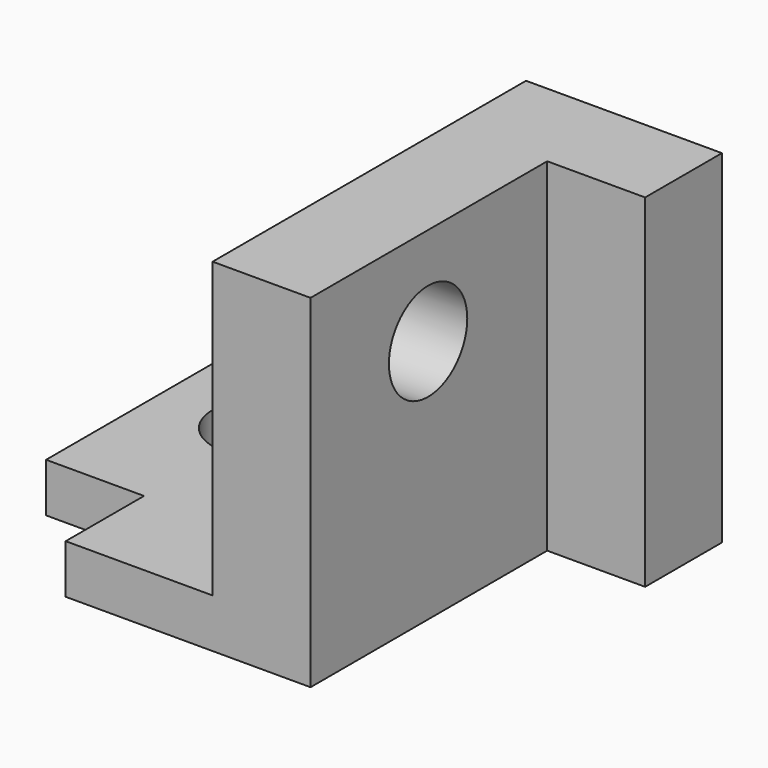
from build123d import *

# Parameters (mm, degrees)
F0_R     = 12.7
F1_DEPTH = 12.7
F2_W     = 12.7
F2_H     = 101.6
F3_DEPTH = 25.4
F2_W_2   = 25.4
F4_DEPTH = 76.2
F5_R     = 12.7
F6_DEPTH = 25.4
F7_W     = 24.888192
F7_H     = 88.9
F8_DEPTH = 25.4


with BuildPart() as f1:
    # F0 (on Top) → F1 (new body)
    with BuildSketch(Plane.XY):
        Polygon((-38.1, -50.8), (38.1, -50.8), (38.1, 50.8), (-38.1, 50.8), (-63.5, 50.8), (-63.5, -25.4), (-38.1, -25.4), align=None)
        with Locations((-38.1, 12.7)):
            Circle(F0_R, mode=Mode.SUBTRACT)
    extrude(amount=F1_DEPTH)

    # F2 (on face) → F3 (cut)
    with BuildSketch(Plane.XY.offset(12.7)):
        with Locations((31.75, 0)):
            Rectangle(F2_W, F2_H)
    extrude(amount=-F3_DEPTH, mode=Mode.SUBTRACT)

    # F2 (on face) → F4 (join)
    with BuildSketch(Plane.XY.offset(12.7)):
        with Locations((12.7, 0)):
            Rectangle(F2_W_2, F2_H)
    extrude(amount=F4_DEPTH)

    # F5 (on face) → F6 (cut)
    with BuildSketch(Plane.YZ.offset(25.4)):
        with Locations((-12.7, 63.5)):
            Circle(F5_R)
    extrude(amount=-F6_DEPTH, mode=Mode.SUBTRACT)

    # F7 (on face) → F8 (join)
    with BuildSketch(Plane.YZ.offset(25.4)):
        with Locations((38.355904, 44.45)):
            Rectangle(F7_W, F7_H)
    extrude(amount=F8_DEPTH)


solid = f1.part
